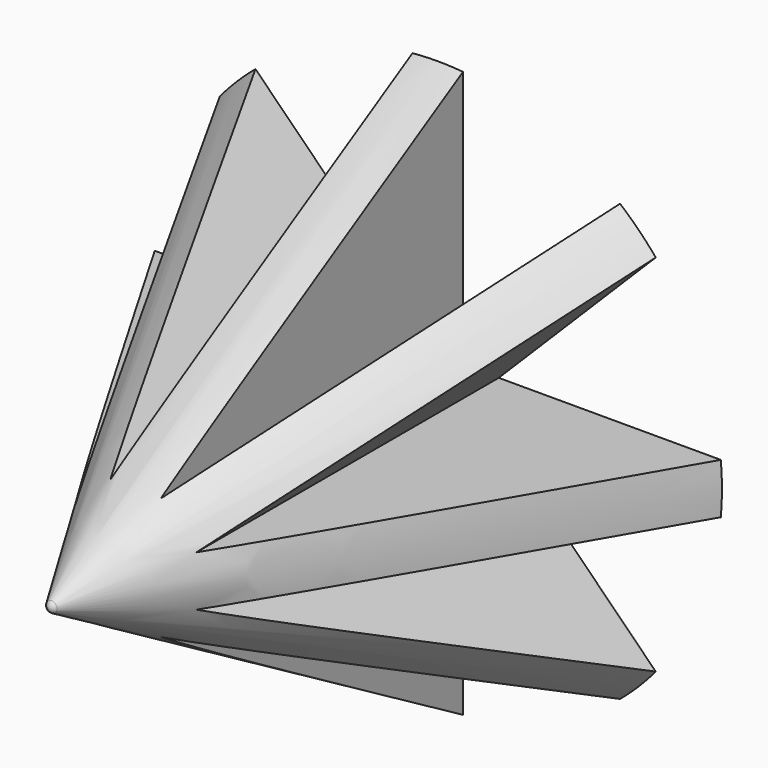
from build123d import *

# Parameters (mm, degrees)
F2_DEPTH      = 2
F2_DEPTH_BACK = 2
F3_ANGLE      = 45
F4_ANGLE      = 45
F5_ANGLE      = 45
F10_DEPTH     = 0.5
F12_DEPTH     = 0.5
F15_DEPTH     = 0.5
F18_DEPTH     = 0.5


with BuildPart() as f2:
    # F1 (on Top) → F2 (new body, two sides)
    with BuildSketch(Plane.XY) as f2_sk:
        Polygon((22.5, 0), (-22.5, 0), (0, -38.971143), align=None)
    extrude(amount=F2_DEPTH)
    extrude(f2_sk.sketch, amount=-F2_DEPTH_BACK)


with BuildPart() as f3_1:
    # F3: copy of F2
    add(f2.part.rotate(Axis((0, -18.774761, 0), (0, 1, 0)), F3_ANGLE))


with BuildPart() as f4_1:
    # F4: copy of F3_1
    add(f3_1.part.rotate(Axis((0, -18.774761, 0), (0, 1, 0)), F4_ANGLE))


with BuildPart() as f5_1:
    # F5: copy of F4_1
    add(f4_1.part.rotate(Axis((0, -18.774761, 0), (0, 1, 0)), F5_ANGLE))


with BuildPart() as f2_1:
    add(f2.part)

    # F6: union F3_1, F4_1, F5_1
    add(f3_1.part)
    add(f4_1.part)
    add(f5_1.part)

    # F9 (on face) → F10 (cut, symmetric)
    with BuildSketch(Plane(origin=(0, 0, 0), x_dir=(0, -1, 0), z_dir=(-0.707107, 0, 0.707107))):
        Polygon((0, -20.190599), (20, -8.643594), (20, 8.643594), (0, 20.190599), align=None)
    extrude(amount=F10_DEPTH, both=True, mode=Mode.SUBTRACT)

    # F11 (on Right) → F12 (cut, symmetric)
    with BuildSketch(Plane.YZ):
        Polygon((-20, -8.643594), (0, -20.190599), (0, 20.190599), (-20, 8.643594), align=None)
    extrude(amount=F12_DEPTH, both=True, mode=Mode.SUBTRACT)

    # F14 (on Top) → F15 (cut, symmetric)
    with BuildSketch(Plane.XY):
        Polygon((20.190599, 0), (-20.190599, 0), (-8.643594, -20), (8.643594, -20), align=None)
    extrude(amount=F15_DEPTH, both=True, mode=Mode.SUBTRACT)

    # F16 (on Top) → F17 (revolve, cut)
    with BuildSketch(Plane.XY):
        with BuildLine():
            Line((47.749247, 0), (22.5, 0))
            Line((22.5, 0), (0.433013, -38.221143))
            ThreePointArc((0.433013, -38.221143), (0.25, -38.404156), (0, -38.471143))
            Line((0, -38.471143), (0, -38.971143))
            Line((0, -38.971143), (0, -40.971143))
            Line((0, -40.971143), (49.308315, -40.971143))
            Line((49.308315, -40.971143), (47.749247, 0))
        make_face()
    revolve(axis=Axis((0, -18.774761, 0), (0, 1, 0)), mode=Mode.SUBTRACT)

    # F13 (on face) → F18 (cut, symmetric)
    with BuildSketch(Plane(origin=(0, 0, 0), x_dir=(0.707107, 0, -0.707107), z_dir=(-0.707107, 0, -0.707107))):
        Polygon((-20.190599, 0), (20.190599, 0), (8.643594, 20), (-8.643594, 20), align=None)
    extrude(amount=F18_DEPTH, both=True, mode=Mode.SUBTRACT)


solid = f2_1.part
